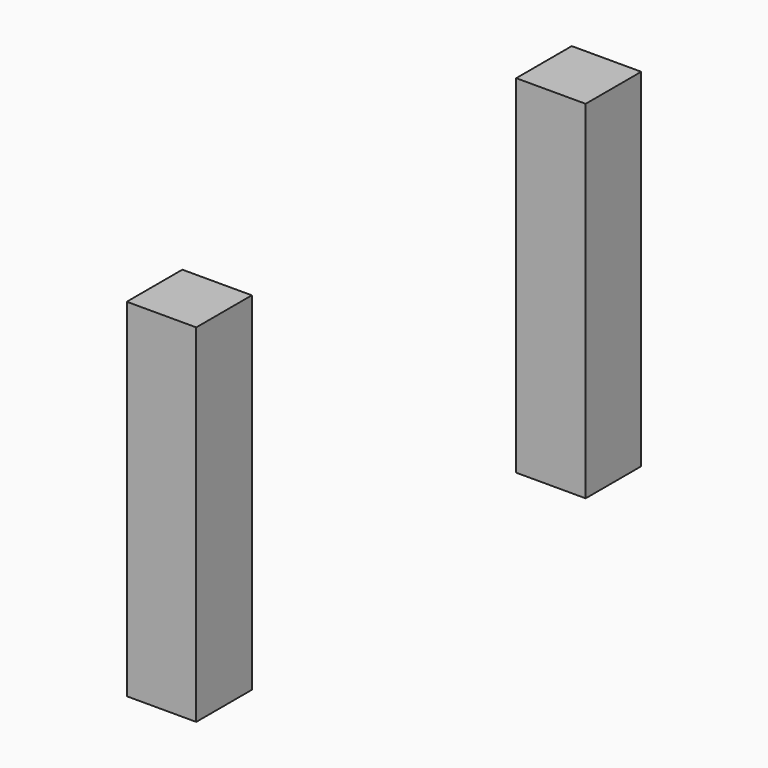
from build123d import *

# Parameters (mm, degrees)
F0_W     = 5
F0_H     = 2.421532
F0_H_2   = 2.578468
F0_H_3   = 2.5
F1_DEPTH = 25


with BuildPart() as f1:
    # F0 (on Top) → F1 (new body)
    with BuildSketch(Plane.XY):
        with Locations((-0.092013, -18.710766)):
            Rectangle(F0_W, F0_H)
        with Locations((-0.092013, -16.210766)):
            Rectangle(F0_W, F0_H_2)
        with Locations((0, 18.75)):
            Rectangle(F0_W, F0_H_3)
        with Locations((0, 16.25)):
            Rectangle(F0_W, F0_H_3)
    extrude(amount=-F1_DEPTH)


solid = f1.part
